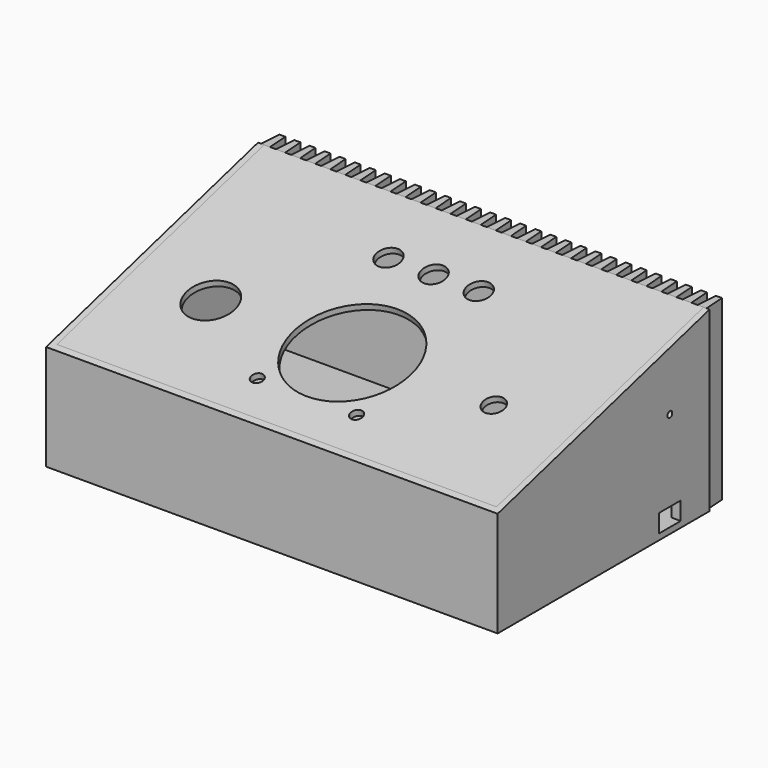
from build123d import *

# Parameters (mm, degrees)
SKETCH_W        = 150
SKETCH_H        = 95
PAD_DEPTH       = 59
SKETCH001_W     = 144
SKETCH001_H     = 84
POCKET_DEPTH    = 57
POCKET001_DEPTH = 151.001
SKETCH004_W     = 146
SKETCH004_H     = 89.067941553
POCKET002_DEPTH = 2
POCKET003_DEPTH = 59.001
SKETCH006_W     = 9
SKETCH006_H     = 6
POCKET004_DEPTH = 3
SKETCH007_R     = 1
POCKET005_DEPTH = 5
SKETCH008_W     = 146
SKETCH008_H     = 89.067941553
PAD001_DEPTH    = 2
SKETCH009_R     = 19.5
SKETCH009_R_2   = 2
POCKET006_DEPTH = 5
SKETCH010_R     = 8
SKETCH010_R_2   = 3.5
POCKET007_DEPTH = 5
SKETCH011_R     = 4
POCKET008_DEPTH = 5


with BuildPart() as box:
    # Sketch → Pad (new body)
    with BuildSketch(Plane.XY):
        Rectangle(SKETCH_W, SKETCH_H)
    extrude(amount=PAD_DEPTH)

    # Sketch001 (on Face6 of Pad) → Pocket (cut)
    with BuildSketch(Plane.XY.offset(59)):
        with Locations((0, -2.5)):
            Rectangle(SKETCH001_W, SKETCH001_H)
    extrude(amount=-POCKET_DEPTH, mode=Mode.SUBTRACT)

    # Sketch003 → Pocket001 (cut, through all)
    with BuildSketch(Plane.YZ.offset(76)):
        Polygon((-47.5, 35), (-47.5, 59), (40.5, 59), align=None)
    extrude(amount=-POCKET001_DEPTH, mode=Mode.SUBTRACT)

    # Sketch004 (on Face6 of Pocket001) → Pocket002 (cut)
    with BuildSketch(Plane(origin=(0, -12.1730769231, 44.6346153846), x_dir=(1, 0, 0), z_dir=(0, -0.2631174058, 0.9647638212))):
        with Locations((0, 10.0263678116)):
            Rectangle(SKETCH004_W, SKETCH004_H)
    extrude(amount=-POCKET002_DEPTH, mode=Mode.SUBTRACT)

    # Sketch005 (on Face5 of Pocket002) → Pocket003 (cut, through all)
    with BuildSketch(Plane.XY.offset(59)):
        Polygon((-76.5, 47.5), (-73.5, 47.5), (-74, 40.5), (-76, 40.5), align=None)
        Polygon((-71.5, 47.5), (-71, 40.5), (-69, 40.5), (-68.5, 47.5), align=None)
        Polygon((-66.5, 47.5), (-66, 40.5), (-64, 40.5), (-63.5, 47.5), align=None)
        Polygon((-61.5, 47.5), (-61, 40.5), (-59, 40.5), (-58.5, 47.5), align=None)
        Polygon((-56.5, 47.5), (-56, 40.5), (-54, 40.5), (-53.5, 47.5), align=None)
        Polygon((-51.5, 47.5), (-51, 40.5), (-49, 40.5), (-48.5, 47.5), align=None)
        Polygon((-46.5, 47.5), (-46, 40.5), (-44, 40.5), (-43.5, 47.5), align=None)
        Polygon((-41.5, 47.5), (-41, 40.5), (-39, 40.5), (-38.5, 47.5), align=None)
        Polygon((-36.5, 47.5), (-36, 40.5), (-34, 40.5), (-33.5, 47.5), align=None)
        Polygon((-31.5, 47.5), (-31, 40.5), (-29, 40.5), (-28.5, 47.5), align=None)
        Polygon((-26.5, 47.5), (-26, 40.5), (-24, 40.5), (-23.5, 47.5), align=None)
        Polygon((-21.5, 47.5), (-21, 40.5), (-19, 40.5), (-18.5, 47.5), align=None)
        Polygon((-16.5, 47.5), (-16, 40.5), (-14, 40.5), (-13.5, 47.5), align=None)
        Polygon((-11.5, 47.5), (-11, 40.5), (-9, 40.5), (-8.5, 47.5), align=None)
        Polygon((-6.5, 47.5), (-6, 40.5), (-4, 40.5), (-3.5, 47.5), align=None)
        Polygon((-1.5, 47.5), (-1, 40.5), (1, 40.5), (1.5, 47.5), align=None)
        Polygon((3.5, 47.5), (4, 40.5), (6, 40.5), (6.5, 47.5), align=None)
        Polygon((8.5, 47.5), (9, 40.5), (11, 40.5), (11.5, 47.5), align=None)
        Polygon((13.5, 47.5), (14, 40.5), (16, 40.5), (16.5, 47.5), align=None)
        Polygon((18.5, 47.5), (19, 40.5), (21, 40.5), (21.5, 47.5), align=None)
        Polygon((23.5, 47.5), (24, 40.5), (26, 40.5), (26.5, 47.5), align=None)
        Polygon((28.5, 47.5), (29, 40.5), (31, 40.5), (31.5, 47.5), align=None)
        Polygon((33.5, 47.5), (34, 40.5), (36, 40.5), (36.5, 47.5), align=None)
        Polygon((38.5, 47.5), (39, 40.5), (41, 40.5), (41.5, 47.5), align=None)
        Polygon((43.5, 47.5), (44, 40.5), (46, 40.5), (46.5, 47.5), align=None)
        Polygon((48.5, 47.5), (49, 40.5), (51, 40.5), (51.5, 47.5), align=None)
        Polygon((53.5, 47.5), (54, 40.5), (56, 40.5), (56.5, 47.5), align=None)
        Polygon((58.5, 47.5), (59, 40.5), (61, 40.5), (61.5, 47.5), align=None)
        Polygon((63.5, 47.5), (64, 40.5), (66, 40.5), (66.5, 47.5), align=None)
        Polygon((68.5, 47.5), (69, 40.5), (71, 40.5), (71.5, 47.5), align=None)
        Polygon((73.5, 47.5), (74, 40.5), (76, 40.5), (76.5, 47.5), align=None)
    extrude(amount=-POCKET003_DEPTH, mode=Mode.SUBTRACT)

    # Sketch006 (on Face9 of Pocket003) → Pocket004 (cut)
    with BuildSketch(Plane.YZ.offset(75)):
        with Locations((24, 5)):
            Rectangle(SKETCH006_W, SKETCH006_H)
    extrude(amount=-POCKET004_DEPTH, mode=Mode.SUBTRACT)

    # Sketch007 (on Face9 of Pocket004) → Pocket005 (cut)
    with BuildSketch(Plane.YZ.offset(75)):
        with Locations((24, 35)):
            Circle(SKETCH007_R)
    extrude(amount=-POCKET005_DEPTH, mode=Mode.SUBTRACT)


with BuildPart() as topplate:
    # Sketch008 (on DatumPlane) → Pad001 (new body)
    with BuildSketch(Plane(origin=(0, -11.6468421115, 42.7050877421), x_dir=(1, 0, 0), z_dir=(0, -0.2631174058, 0.9647638212))):
        with Locations((0, 10.0263678116)):
            Rectangle(SKETCH008_W, SKETCH008_H)
    extrude(amount=PAD001_DEPTH)

    # Sketch009 (on Face6 of Pad001) → Pocket006 (cut)
    with BuildSketch(Plane(origin=(0, -12.1730769231, 44.6346153846), x_dir=(1, 0, 0), z_dir=(0, -0.2631174058, 0.9647638212))):
        with Locations((0, -2.0076029649)):
            Circle(SKETCH009_R)
        with Locations((-16.5, -21.5076029649)):
            Circle(SKETCH009_R_2)
        with Locations((16.5, -21.5076029649)):
            Circle(SKETCH009_R_2)
    extrude(amount=-POCKET006_DEPTH, mode=Mode.SUBTRACT)

    # Sketch010 (on Face5 of Pocket006) → Pocket007 (cut)
    with BuildSketch(Plane(origin=(0, -12.1730769231, 44.6346153846), x_dir=(1, 0, 0), z_dir=(0, -0.2631174058, 0.9647638212))):
        with Locations((-47, -2.0076029649)):
            Circle(SKETCH010_R)
        with Locations((47, -2.0076029649)):
            Circle(SKETCH010_R_2)
    extrude(amount=-POCKET007_DEPTH, mode=Mode.SUBTRACT)

    # Sketch011 (on Face5 of Pocket007) → Pocket008 (cut)
    with BuildSketch(Plane(origin=(0, -12.1730769231, 44.6346153846), x_dir=(1, 0, 0), z_dir=(0, -0.2631174058, 0.9647638212))):
        with Locations((-15, 32.9923970351)):
            Circle(SKETCH011_R)
        with Locations((0, 32.9923970351)):
            Circle(SKETCH011_R)
        with Locations((15, 32.9923970351)):
            Circle(SKETCH011_R)
    extrude(amount=-POCKET008_DEPTH, mode=Mode.SUBTRACT)


solid = Compound([box.part, topplate.part])
